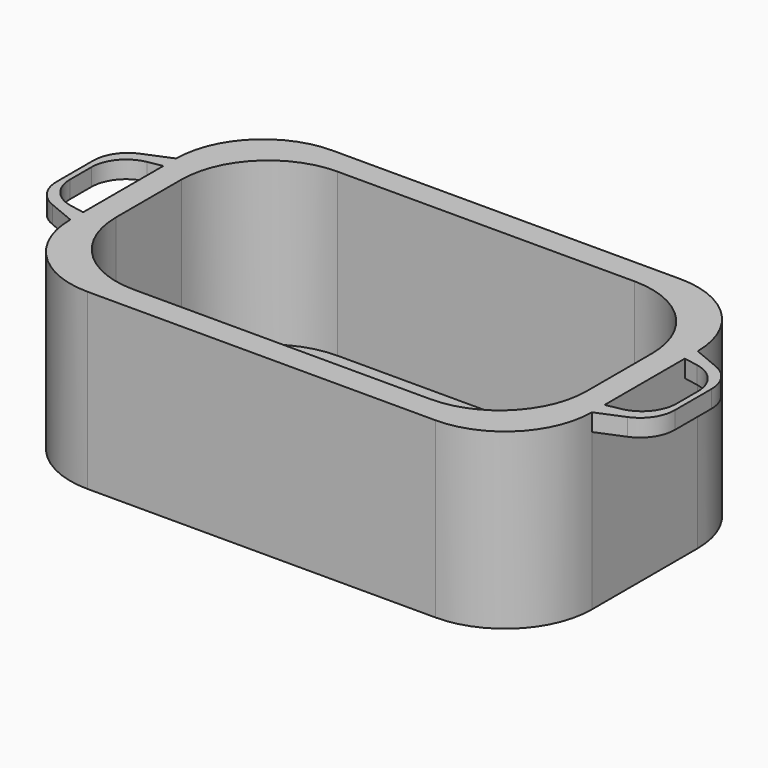
from build123d import *

# Parameters (mm, degrees)
F1_DEPTH = 38.1
F3_DEPTH = 35.56
F5_DEPTH = 3.81


with BuildPart() as f1:
    # F0 (on Top) → F1 (new body)
    with BuildSketch(Plane.XY):
        with BuildLine():
            Line((28.9094160199, 35.7320394768), (-47.4246910334, 35.7320394768))
            ThreePointArc((-47.4246910334, 35.7320394768), (-60.895075215, 30.1524236584), (-66.4746910334, 16.6820394768))
            Line((-66.4746910334, 16.6820394768), (-66.4746910334, -12.3694256604))
            ThreePointArc((-66.4746910334, -12.3694256604), (-60.895075215, -25.839809842), (-47.4246910334, -31.4194256604))
            Line((-47.4246910334, -31.4194256604), (28.9094160199, -31.4194256604))
            ThreePointArc((28.9094160199, -31.4194256604), (42.3798002015, -25.839809842), (47.9594160199, -12.3694256604))
            Line((47.9594160199, -12.3694256604), (47.9594160199, 16.6820394768))
            ThreePointArc((47.9594160199, 16.6820394768), (42.3798002015, 30.1524236584), (28.9094160199, 35.7320394768))
        make_face()
    extrude(amount=F1_DEPTH)

    # F2 (on face) → F3 (cut)
    with BuildSketch(Plane.XY.offset(38.1)):
        with BuildLine():
            Line((23.3298002015, 30.1524236584), (-41.845075215, 30.1524236584))
            ThreePointArc((-41.845075215, 30.1524236584), (-55.3154593966, 24.57280784), (-60.895075215, 11.1024236584))
            Line((-60.895075215, 11.1024236584), (-60.895075215, -6.789809842))
            ThreePointArc((-60.895075215, -6.789809842), (-55.3154593966, -20.2601940236), (-41.845075215, -25.839809842))
            Line((-41.845075215, -25.839809842), (23.3298002015, -25.839809842))
            ThreePointArc((23.3298002015, -25.839809842), (36.8001843831, -20.2601940236), (42.3798002015, -6.789809842))
            Line((42.3798002015, -6.789809842), (42.3798002015, 11.1024236584))
            ThreePointArc((42.3798002015, 11.1024236584), (36.8001843831, 24.57280784), (23.3298002015, 30.1524236584))
        make_face()
    extrude(amount=-F3_DEPTH, mode=Mode.SUBTRACT)

    # F4 (on face) → F5 (join)
    with BuildSketch(Plane.XY.offset(38.1)):
        with BuildLine():
            Line((47.9594160199, -8.8493684307), (47.9594160199, -12.3694256604))
            Line((47.9594160199, -12.3694256604), (53.8822529313, -9.912228523))
            ThreePointArc((53.8822529313, -9.912228523), (57.2992531994, -7.1055718841), (58.5822723806, -2.87389679))
            Line((58.5822723806, -2.87389679), (58.5822723806, 7.1865106064))
            ThreePointArc((58.5822723806, 7.1865106064), (57.2992531994, 11.4181857005), (53.8822529313, 14.2248423394))
            Line((53.8822529313, 14.2248423394), (47.9594160199, 16.6820394768))
            Line((47.9594160199, 16.6820394768), (47.9594160199, 13.1619822471))
            Line((47.9594160199, 13.1619822471), (51.0777804109, 12.5797672736))
            ThreePointArc((51.0777804109, 12.5797672736), (55.5410437685, 9.9578611105), (57.2992531994, 5.0892051025))
            Line((57.2992531994, 5.0892051025), (57.2992531994, -0.7765912861))
            ThreePointArc((57.2992531994, -0.7765912861), (55.5410437685, -5.6452472941), (51.0777804109, -8.2671534572))
            Line((51.0777804109, -8.2671534572), (47.9594160199, -8.8493684307))
        make_face()
        with BuildLine():
            Line((-72.3975279448, -9.912228523), (-66.4746910334, -12.3694256604))
            Line((-66.4746910334, -12.3694256604), (-66.4746910334, -8.8493684307))
            Line((-66.4746910334, -8.8493684307), (-69.5930554243, -8.2671534572))
            ThreePointArc((-69.5930554243, -8.2671534572), (-74.0563187819, -5.6452472941), (-75.8145282129, -0.7765912861))
            Line((-75.8145282129, -0.7765912861), (-75.8145282129, 5.0892051025))
            ThreePointArc((-75.8145282129, 5.0892051025), (-74.0563187819, 9.9578611105), (-69.5930554243, 12.5797672736))
            Line((-69.5930554243, 12.5797672736), (-66.4746910334, 13.1619822471))
            Line((-66.4746910334, 13.1619822471), (-66.4746910334, 16.6820394768))
            Line((-66.4746910334, 16.6820394768), (-72.3975279448, 14.2248423394))
            ThreePointArc((-72.3975279448, 14.2248423394), (-75.8145282129, 11.4181857005), (-77.097547394, 7.1865106064))
            Line((-77.097547394, 7.1865106064), (-77.097547394, -2.87389679))
            ThreePointArc((-77.097547394, -2.87389679), (-75.8145282129, -7.1055718841), (-72.3975279448, -9.912228523))
        make_face()
    extrude(amount=-F5_DEPTH)


solid = f1.part
